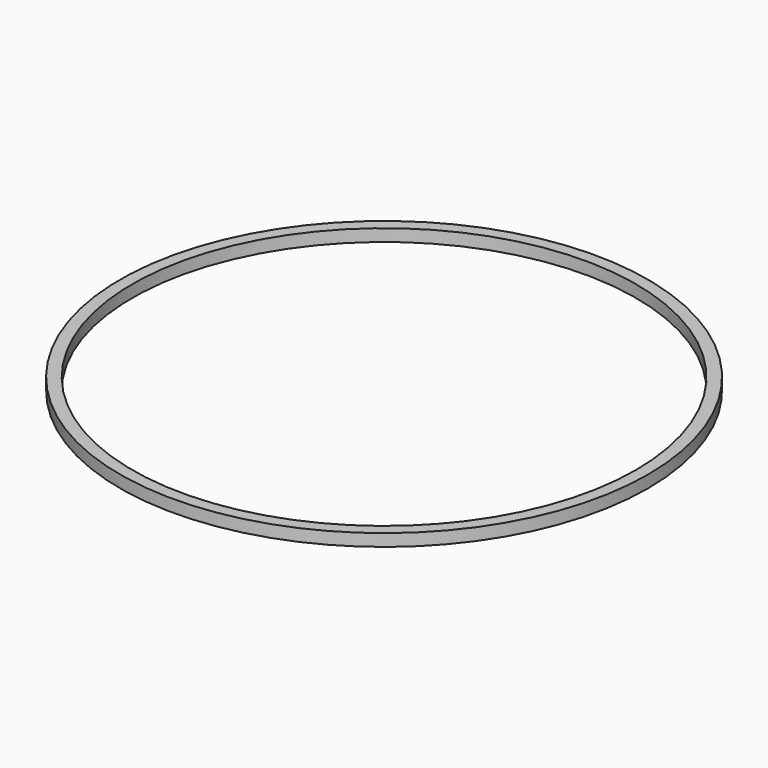
from build123d import *

# Parameters (mm, degrees)
F1_W     = 180
F1_H     = 180
F1_W_2   = 179.4
F1_H_2   = 179.4
F2_DEPTH = 0.3
F1_W_3   = 129.7133469
F1_H_3   = 140
F1_W_4   = 129.1133469
F1_H_4   = 139.4
F1_R     = 6.5
F1_R_2   = 6.2
F1_W_5   = 80
F1_H_5   = 80


with BuildPart() as f2:
    # F1 (on Top) → F2 (new body)
    with BuildSketch(Plane.XY):
        with Locations((-1.4824382961, 17.8632308638)):
            Rectangle(F1_W, F1_H)
        with Locations((-1.4824382961, 17.8632308638)):
            Rectangle(F1_W_2, F1_H_2, mode=Mode.SUBTRACT)
    extrude(amount=F2_DEPTH)


with BuildPart() as f2b:
    # F1 (on Top) → F2, piece 2 (new body)
    with BuildSketch(Plane.XY):
        Polygon((-81.3541731706, 97.8632308638), (-81.4824382961, 97.8632308638), (-81.4824382961, 95.4210562907), (-81.1824382961, 95.666005265), (-81.1824382961, 97.5632308638), (-79.8844793249, 97.5632308638), align=None)
        Polygon((-79.8541731706, 97.8632308638), (-81.3541731706, 97.8632308638), (-79.8844793249, 97.5632308638), (-78.3844793249, 97.5632308638), align=None)
        Polygon((68.2309086039, 97.8632308638), (-79.8541731706, 97.8632308638), (-78.3844793249, 97.5632308638), (67.9309086039, 97.5632308638), (67.9309086039, -61.8367691362), (-81.1824382961, -61.8367691362), (-81.1824382961, 95.2787069303), (-81.4824382961, 95.0337579561), (-81.4824382961, -62.1367691362), (68.2309086039, -62.1367691362), align=None)
        Polygon((-87.8824382961, 99.1958074024), (-81.3541731706, 97.8632308638), (-79.8541731706, 97.8632308638), (-88.1824382961, 99.5632308638), (-88.1824382961, 89.5632308638), (-81.4824382961, 95.0337579561), (-81.4824382961, 95.4210562907), (-87.8824382961, 90.1954781727), align=None)
    extrude(amount=F2_DEPTH)


with BuildPart() as f2c:
    # F1 (on Top) → F2, piece 3 (new body)
    with BuildSketch(Plane.XY):
        with Locations((-6.6257648461, 17.8632308638)):
            Rectangle(F1_W_3, F1_H_3)
        with Locations((-6.6257648461, 17.8632308638)):
            Rectangle(F1_W_4, F1_H_4, mode=Mode.SUBTRACT)
    extrude(amount=F2_DEPTH)


with BuildPart() as f2d:
    # F1 (on Top) → F2, piece 4 (new body)
    with BuildSketch(Plane.XY):
        with Locations((78.3742351539, -51.8367691362)):
            Circle(F1_R)
        with Locations((78.3742351539, -51.8367691362)):
            Circle(F1_R_2, mode=Mode.SUBTRACT)
    extrude(amount=F2_DEPTH)


with BuildPart() as f2e:
    # F1 (on Top) → F2, piece 5 (new body)
    with BuildSketch(Plane.XY):
        with Locations((-1.4824382961, 17.8632308638)):
            Rectangle(F1_W_5, F1_H_5)
    extrude(amount=F2_DEPTH)


solid = f2d.part
